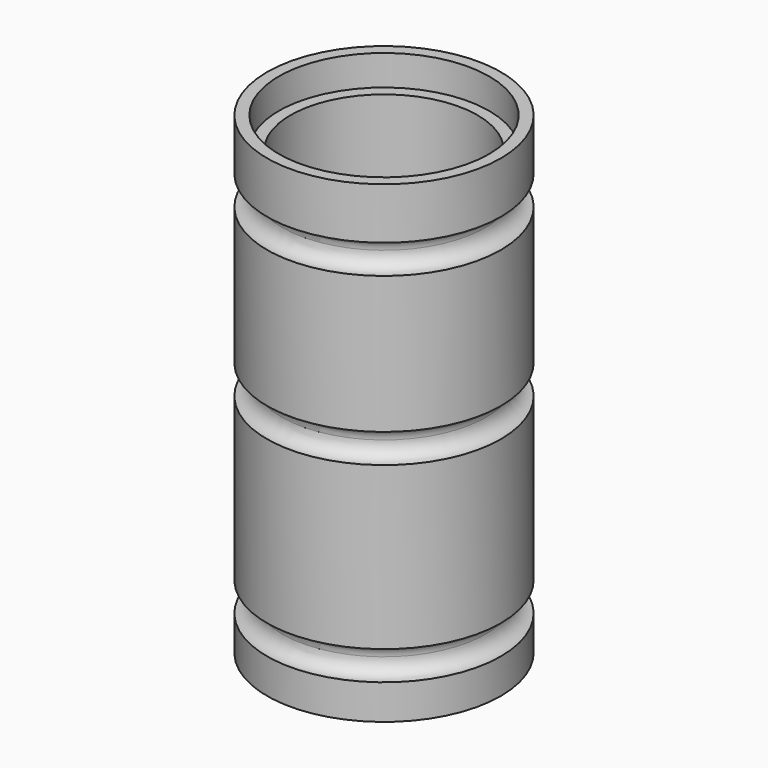
from build123d import *

# Parameters (mm, degrees)
F0_R     = 20
F1_DEPTH = 81
F2_T     = -4
F3_R     = 18
F4_DEPTH = 5.2
F5_R     = 2.5


with BuildPart() as f1:
    # F0 (on Top) → F1 (new body)
    with BuildSketch(Plane.XY):
        Circle(F0_R)
    extrude(amount=F1_DEPTH)

    # F2
    f2_openings = [f1.faces().sort_by_distance(p)[0] for p in [
        (0, 0, 81),
    ]]
    offset(amount=F2_T, openings=f2_openings)

    # F3 (on face) → F4 (cut)
    with BuildSketch(Plane.XY.offset(81)):
        Circle(F3_R)
    extrude(amount=-F4_DEPTH, mode=Mode.SUBTRACT)

    # F5 (on Front) → F7 (revolve, cut)
    with BuildSketch(Plane.XZ):
        with Locations((-19.88295, 69.687018)):
            Circle(F5_R)
        with Locations((-19.929303, 8.469807)):
            Circle(F5_R)
        with Locations((-20.045732, 41.192323)):
            Circle(F5_R)
    revolve(axis=Axis((0, 0, 37.363928), (0, 0, -1)), mode=Mode.SUBTRACT)


solid = f1.part
